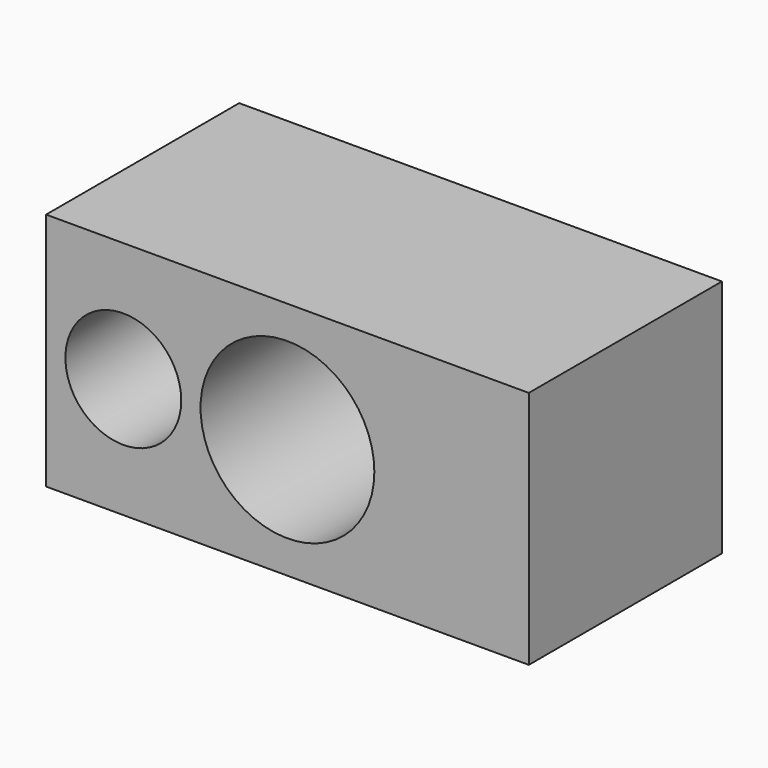
from build123d import *

# Parameters (mm, degrees)
F0_W     = 50
F0_H     = 24.8
F0_R     = 6
F0_R_2   = 9
F0_R_3   = 3
F1_DEPTH = 25
F2_DEPTH = 15


with BuildPart() as f1:
    # F0 (on Front) → F1 (new body)
    with BuildSketch(Plane.XZ):
        with Locations((25, 12.4)):
            Rectangle(F0_W, F0_H)
        with Locations((8, 12.4)):
            Circle(F0_R, mode=Mode.SUBTRACT)
        with Locations((25, 12.4)):
            Circle(F0_R_2, mode=Mode.SUBTRACT)
        with Locations((8, 12.4)):
            Circle(F0_R)
        with Locations((8, 12.4)):
            Circle(F0_R_3, mode=Mode.SUBTRACT)
    extrude(amount=-F1_DEPTH)

    # F0 (on Front) → F2 (cut)
    with BuildSketch(Plane.XZ):
        with Locations((8, 12.4)):
            Circle(F0_R)
        with Locations((8, 12.4)):
            Circle(F0_R_3, mode=Mode.SUBTRACT)
    extrude(amount=-F2_DEPTH, mode=Mode.SUBTRACT)


solid = f1.part
